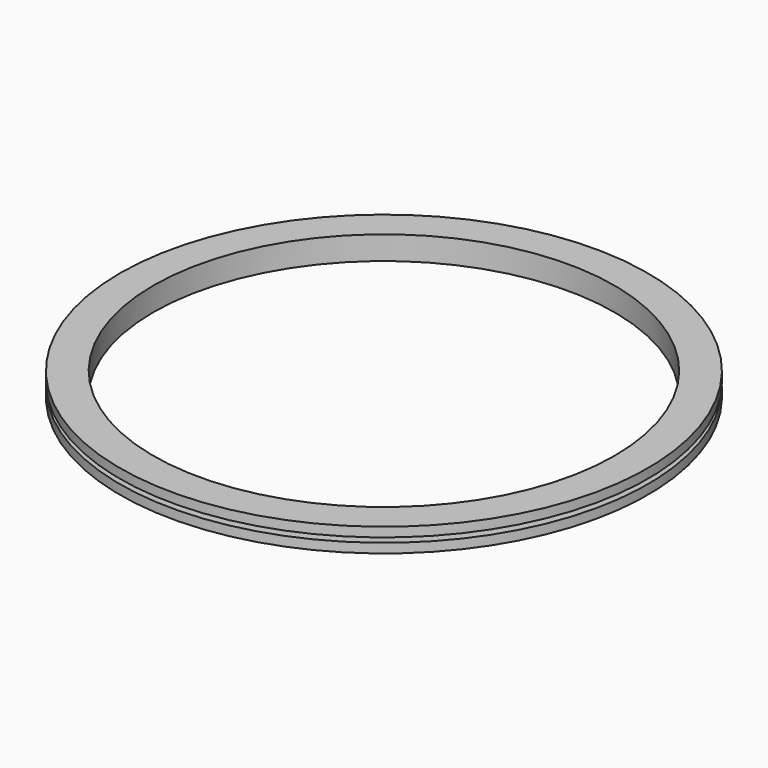
from build123d import *

# Parameters (mm, degrees)
F0_W = 40
F0_H = 12.7


with BuildPart() as f1:
    # F0 (on Front) → F1 (revolve)
    with BuildSketch(Plane.XZ):
        Polygon((-622, 0), (-622, 63.5), (-662, 63.5), (-662, 50.8), (-662, 12.7), (-662, 0), align=None)
    revolve(axis=Axis((0, 0, 31.75), (0, 0, -1)))

    # F0 (on Front) → F2 (revolve)
    with BuildSketch(Plane.XZ):
        Polygon((-662, 50.8), (-662, 63.5), (-712, 63.5), (-712, 50.8), (-672, 50.8), align=None)
        with Locations((-692, 44.45)):
            Rectangle(F0_W, F0_H)
    revolve(axis=Axis((0, 0, 31.75), (0, 0, -1)))

    # F0 (on Front) → F3 (revolve)
    with BuildSketch(Plane.XZ):
        with Locations((-692, 19.05)):
            Rectangle(F0_W, F0_H)
        Polygon((-712, 0), (-662, 0), (-662, 12.7), (-672, 12.7), (-712, 12.7), align=None)
    revolve(axis=Axis((0, 0, 31.75), (0, 0, -1)))


solid = f1.part
